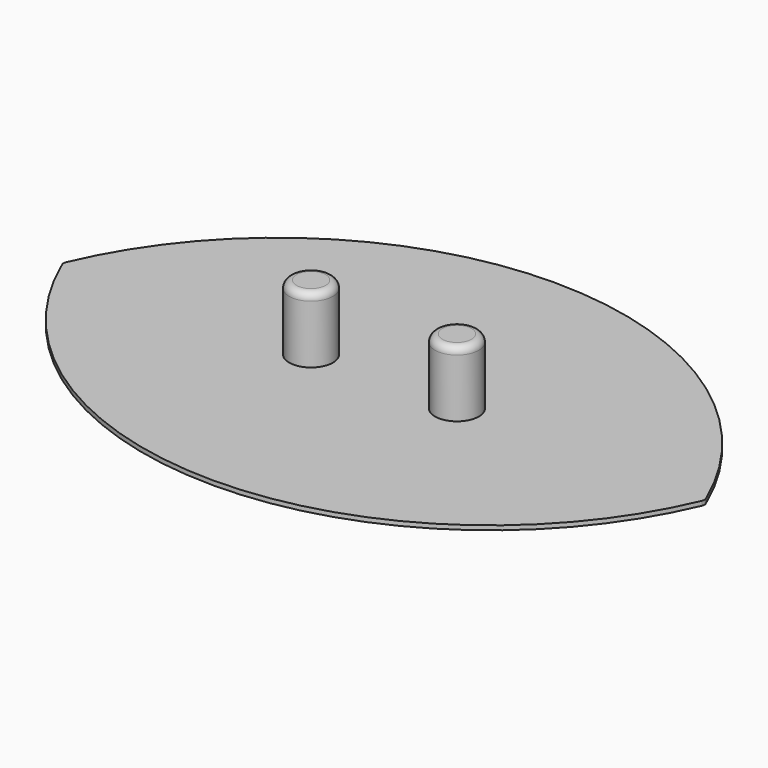
from build123d import *

# Parameters (mm, degrees)
F3_DEPTH = 0.3
F4_R     = 1.5
F5_DEPTH = 4.5
F6_R     = 0.5


with BuildPart() as f3:
    # F2 (on Top) → F3 (new body)
    with BuildSketch(Plane.XY):
        with BuildLine():
            ThreePointArc((21.9341482237, -0.1564722617), (21.9660226591, 0), (21.9341482237, 0.1564722617))
            ThreePointArc((21.9341482237, 0.1564722617), (0, 14.6666666667), (-21.9341482237, 0.1564722617))
            ThreePointArc((-21.9341482237, 0.1564722617), (-21.9660226591, 0), (-21.9341482237, -0.1564722617))
            ThreePointArc((-21.9341482237, -0.1564722617), (0, -14.6666666667), (21.9341482237, -0.1564722617))
        make_face()
    extrude(amount=F3_DEPTH)

    # F4 (on face) → F5 (join)
    with BuildSketch(Plane.XY.offset(0.3)):
        with Locations((-5, 0)):
            Circle(F4_R)
        with Locations((5, 0)):
            Circle(F4_R)
    extrude(amount=F5_DEPTH)

    # F6
    f6_edges = [f3.edges().sort_by_distance(p)[0] for p in [
        (-6.5, 0, 4.8),
        (3.5, 0, 4.8),
    ]]
    fillet(f6_edges, radius=F6_R)


solid = f3.part
